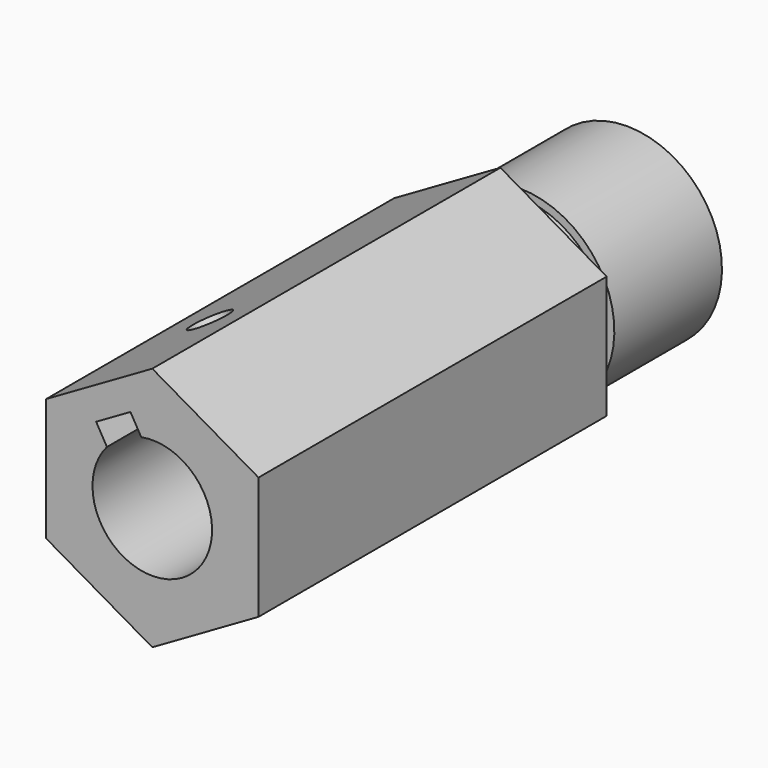
from build123d import *

# Parameters (mm, degrees)
F0_R      = 15.5
F1_DEPTH  = 75
F4_R      = 25.113735
F5_DEPTH  = 55.001
F6_R      = 7.557
F7_DEPTH  = 75.001
F9_DEPTH  = 35
F10_R     = 7.557
F10_R_2   = 6.35
F11_DEPTH = 35
F13_D     = 5
F13_DEPTH = 15


with BuildPart() as f1:
    # F0 (on Front) → F1 (new body)
    with BuildSketch(Plane.XZ):
        Circle(F0_R)
    extrude(amount=F1_DEPTH)

    # F2 (on Right) → F3 (revolve, cut)
    with BuildSketch(Plane.YZ):
        Polygon((-17, 12), (0, 12), (0, 15.5), (-20, 15.5), (-20, 11), (-17, 11), align=None)
    revolve(axis=Axis((0, -40.473823, 0), (0, -1, 0)), mode=Mode.SUBTRACT)

    # F4 (on face) → F5 (cut, through all)
    with BuildSketch(Plane(origin=(0, -20, 0), x_dir=(-1, 0, 0), z_dir=(0, 1, 0))):
        Circle(F4_R)
        Polygon((-13.423394, 7.75), (0, 15.5), (13.423394, 7.75), (13.423394, -7.75), (0, -15.5), (-13.423394, -7.75), align=None, mode=Mode.SUBTRACT)
    extrude(amount=-F5_DEPTH, mode=Mode.SUBTRACT)

    # F6 (on face) → F7 (cut, through all)
    with BuildSketch(Plane(origin=(0, 0, 0), x_dir=(-1, 0, 0), z_dir=(0, 1, 0))):
        Circle(F6_R)
    extrude(amount=-F7_DEPTH, mode=Mode.SUBTRACT)

    # F8 (on face) → F9 (cut)
    with BuildSketch(Plane.XZ.offset(75)):
        Polygon((-0.463436, 5.802696), (-2.763436, 9.786412), (-7.093564, 7.286412), (-4.793564, 3.302696), align=None)
    extrude(amount=-F9_DEPTH, mode=Mode.SUBTRACT)

    # F10 (on face) → F11 (join)
    with BuildSketch(Plane(origin=(0, 0, 0), x_dir=(-1, 0, 0), z_dir=(0, 1, 0))):
        Circle(F10_R)
        Circle(F10_R_2, mode=Mode.SUBTRACT)
    extrude(amount=-F11_DEPTH)

    # F13
    with Locations(Plane(origin=(-6.711697, 0, 11.625), x_dir=(0.866025, 0, 0.5), z_dir=(-0.5, 0, 0.866025))):
        with Locations((0, -57.5)):
            Hole(F13_D / 2, depth=F13_DEPTH)

    # F14 (on Right) → F15 (revolve, cut)
    with BuildSketch(Plane.YZ):
        Polygon((-20, 0), (0, 0), (0, 8.875), (-20, 6.064183), align=None)
    revolve(axis=Axis((0, -10, 0), (0, 1, 0)), mode=Mode.SUBTRACT)


solid = f1.part
